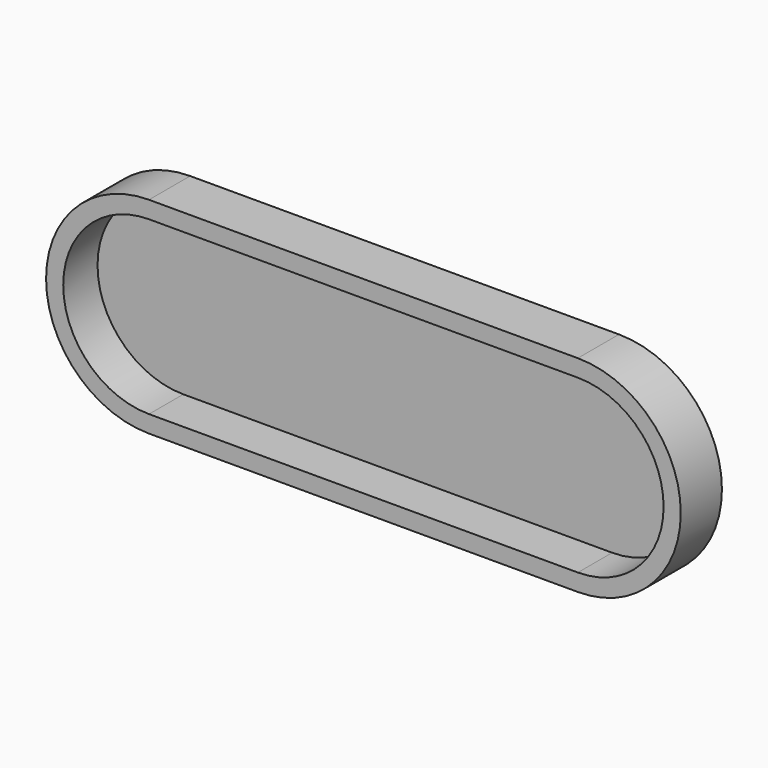
from build123d import *

# Parameters (mm, degrees)
F1_DEPTH = 12.7
F2_DEPTH = 2.54


with BuildPart() as f1:
    # F0 (on Front) → F1 (new body)
    with BuildSketch(Plane.XZ):
        with BuildLine():
            Line((63.5, 30.48), (-63.5, 30.48))
            ThreePointArc((-63.5, 30.48), (-93.98, 0), (-63.5, -30.48))
            Line((-63.5, -30.48), (63.5, -30.48))
            ThreePointArc((63.5, -30.48), (93.98, 0), (63.5, 30.48))
        make_face()
        with BuildLine():
            Line((63.5, -25.4), (-63.5, -25.4))
            ThreePointArc((-63.5, -25.4), (-88.9, 0), (-63.5, 25.4))
            Line((-63.5, 25.4), (63.5, 25.4))
            ThreePointArc((63.5, 25.4), (88.9, 0), (63.5, -25.4))
        make_face(mode=Mode.SUBTRACT)
    extrude(amount=F1_DEPTH)

    # F0 (on Front) → F2 (join)
    with BuildSketch(Plane.XZ):
        with BuildLine():
            Line((63.5, 30.48), (-63.5, 30.48))
            ThreePointArc((-63.5, 30.48), (-93.98, 0), (-63.5, -30.48))
            Line((-63.5, -30.48), (63.5, -30.48))
            ThreePointArc((63.5, -30.48), (93.98, 0), (63.5, 30.48))
        make_face()
        with BuildLine():
            Line((63.5, -25.4), (-63.5, -25.4))
            ThreePointArc((-63.5, -25.4), (-88.9, 0), (-63.5, 25.4))
            Line((-63.5, 25.4), (63.5, 25.4))
            ThreePointArc((63.5, 25.4), (88.9, 0), (63.5, -25.4))
        make_face(mode=Mode.SUBTRACT)
        with BuildLine():
            ThreePointArc((-63.5, 25.4), (-88.9, 0), (-63.5, -25.4))
            Line((-63.5, -25.4), (63.5, -25.4))
            ThreePointArc((63.5, -25.4), (88.9, 0), (63.5, 25.4))
            Line((63.5, 25.4), (-63.5, 25.4))
        make_face()
    extrude(amount=-F2_DEPTH)


solid = f1.part
